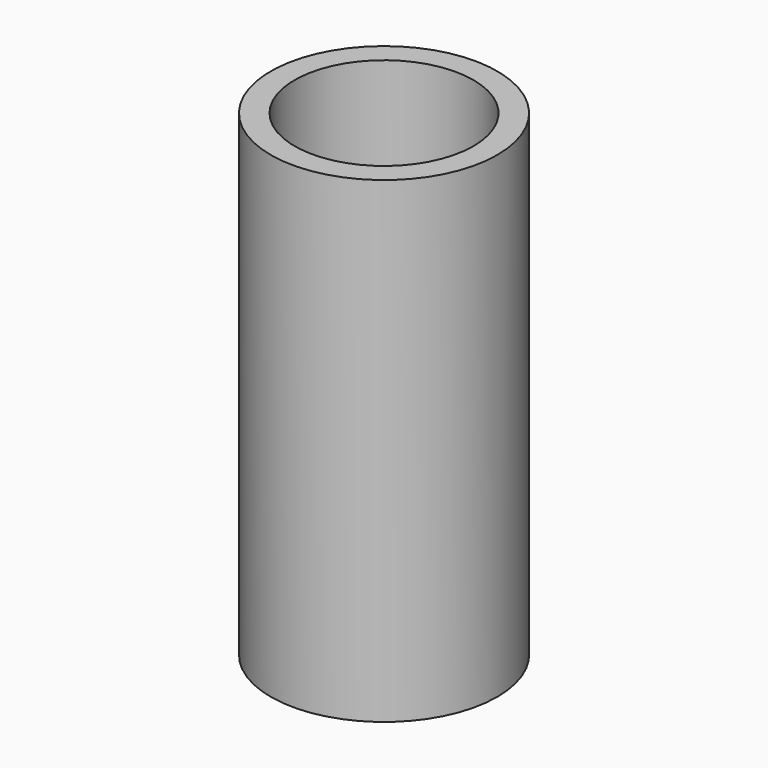
from build123d import *

# Parameters (mm, degrees)
F0_R     = 9.5
F0_R_2   = 7.5
F1_DEPTH = 40
F2_W     = 5
F2_H     = 11
F3_DEPTH = 25


with BuildPart() as f1:
    # F0 (on Top) → F1 (new body)
    with BuildSketch(Plane.XY):
        Circle(F0_R)
        Circle(F0_R_2, mode=Mode.SUBTRACT)
    extrude(amount=F1_DEPTH)

    # F2 (on Right) → F3 (cut)
    with BuildSketch(Plane.YZ):
        with Locations((0, 20)):
            Rectangle(F2_W, F2_H)
    extrude(amount=-F3_DEPTH, mode=Mode.SUBTRACT)


solid = f1.part
